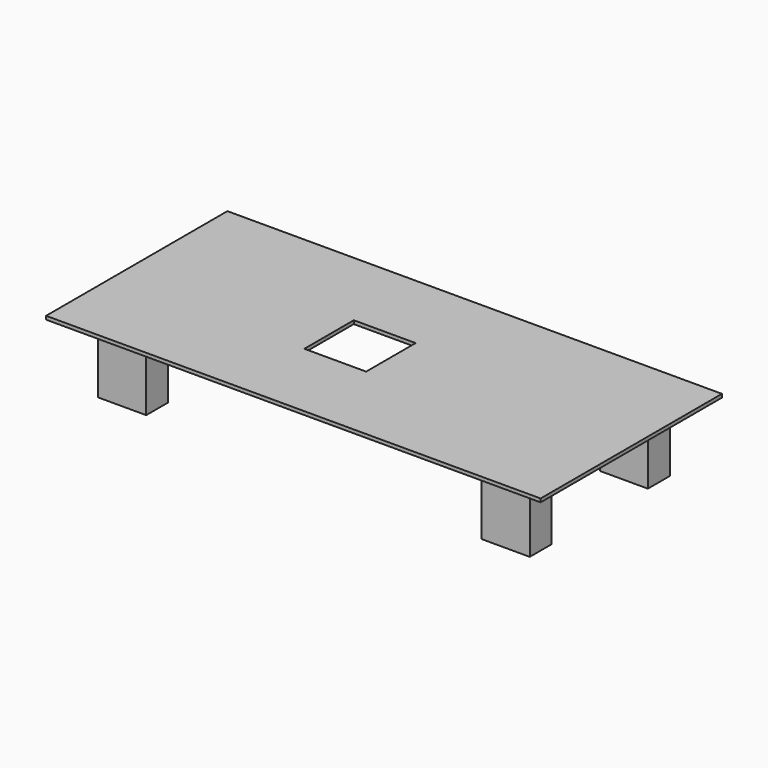
from build123d import *

# Parameters (mm, degrees)
F0_W     = 914.4
F0_H     = 419.1
F1_DEPTH = 6.35
F2_W     = 88.9
F2_H     = 50.8
F3_DEPTH = 127
F4_W     = 114.3
F4_H     = 114.3
F5_DEPTH = 6.35


with BuildPart() as f1:
    # F0 (on Top) → F1 (new body)
    with BuildSketch(Plane.XY):
        with Locations((8.092676, -162.5851)):
            Rectangle(F0_W, F0_H)
    extrude(amount=F1_DEPTH)

    # F2 (on face) → F3 (join)
    with BuildSketch(Plane(origin=(0, 0, 0), x_dir=(1, 0, 0), z_dir=(0, 0, -1))):
        with Locations((-346.515909, 299.105746)):
            Rectangle(F2_W, F2_H)
        with Locations((-346.515909, 26.064454)):
            Rectangle(F2_W, F2_H)
        with Locations((362.701261, 299.105746)):
            Rectangle(F2_W, F2_H)
        with Locations((362.701261, 26.064454)):
            Rectangle(F2_W, F2_H)
    extrude(amount=F3_DEPTH)

    # F4 (on face) → F5 (cut)
    with BuildSketch(Plane.XY.offset(6.35)):
        with Locations((-36.357324, -162.5851)):
            Rectangle(F4_W, F4_H)
    extrude(amount=-F5_DEPTH, mode=Mode.SUBTRACT)


solid = f1.part
